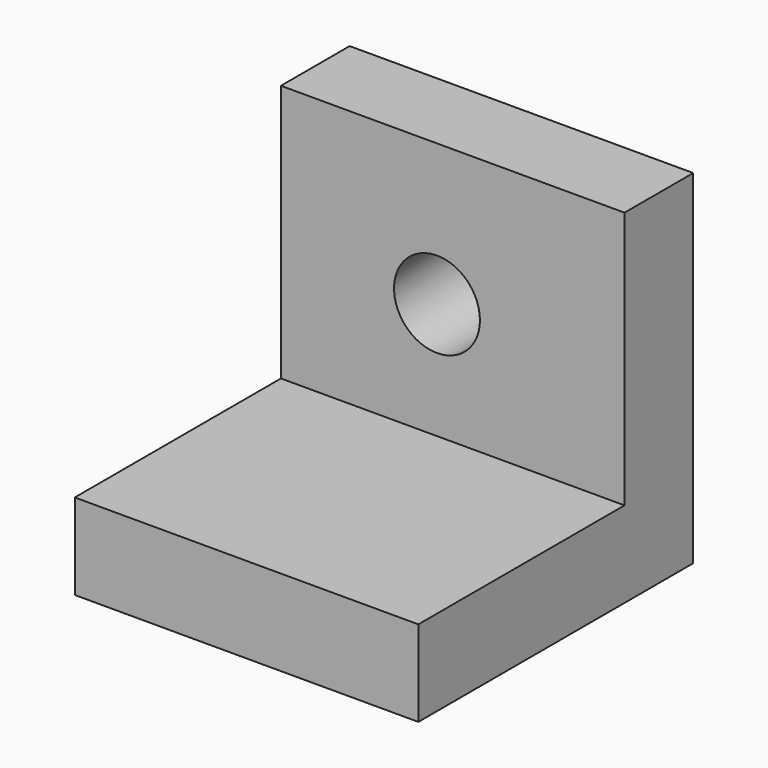
from build123d import *

# Parameters (mm, degrees)
F0_W     = 50.8
F0_H     = 38.1
F1_DEPTH = 12.7
F0_H_2   = 12.7
F2_DEPTH = 50.8
F3_R     = 6.35
F4_DEPTH = 25.4


with BuildPart() as f1:
    # F0 (on Top) → F1 (new body)
    with BuildSketch(Plane.XY):
        with Locations((9.952778, -20.698854)):
            Rectangle(F0_W, F0_H)
    extrude(amount=F1_DEPTH)

    # F0 (on Top) → F2 (join)
    with BuildSketch(Plane.XY):
        with Locations((9.952778, 4.701146)):
            Rectangle(F0_W, F0_H_2)
    extrude(amount=F2_DEPTH)

    # F3 (on face) → F4 (cut)
    with BuildSketch(Plane.XZ.offset(1.648854)):
        with Locations((7.626153, 29.858338)):
            Circle(F3_R)
    extrude(amount=-F4_DEPTH, mode=Mode.SUBTRACT)


solid = f1.part
